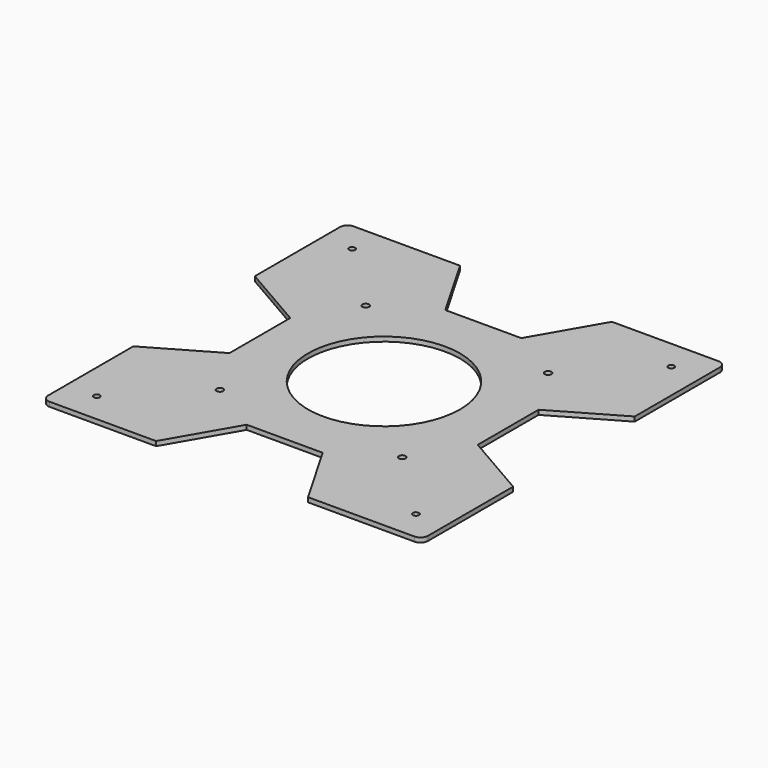
from build123d import *

# Parameters (mm, degrees)
F0_R     = 50
F1_DEPTH = 3
F2_D     = 4.4
F3_D     = 4


with BuildPart() as f1:
    # F0 (on Top) → F1 (new body)
    with BuildSketch(Plane.XY):
        with BuildLine():
            Line((-101.7921956682, 211.8060733306), (-171.7921956682, 211.8060733306))
            ThreePointArc((-171.7921956682, 211.8060733306), (-175.3277295741, 210.3416072366), (-176.7921956682, 206.8060733306))
            Line((-176.7921956682, 206.8060733306), (-176.7921956682, 136.8060733306))
            Line((-176.7921956682, 136.8060733306), (-133.490925479, 111.8060733306))
            Line((-133.490925479, 111.8060733306), (-133.490925479, 61.8060733306))
            Line((-133.490925479, 61.8060733306), (-176.7921956682, 36.8060733306))
            Line((-176.7921956682, 36.8060733306), (-176.7921956682, -33.1939266694))
            ThreePointArc((-176.7921956682, -33.1939266694), (-175.3277295741, -36.7294605753), (-171.7921956682, -38.1939266694))
            Line((-171.7921956682, -38.1939266694), (-101.7921956682, -38.1939266694))
            Line((-101.7921956682, -38.1939266694), (-76.7921956682, 5.1073435198))
            Line((-76.7921956682, 5.1073435198), (-26.7921956682, 5.1073435198))
            Line((-26.7921956682, 5.1073435198), (-1.7921956682, -38.1939266694))
            Line((-1.7921956682, -38.1939266694), (68.2078043318, -38.1939266694))
            ThreePointArc((68.2078043318, -38.1939266694), (71.7433382377, -36.7294605753), (73.2078043318, -33.1939266694))
            Line((73.2078043318, -33.1939266694), (73.2078043318, 36.8060733306))
            Line((73.2078043318, 36.8060733306), (29.9065341426, 61.8060733306))
            Line((29.9065341426, 61.8060733306), (29.9065341426, 111.8060733306))
            Line((29.9065341426, 111.8060733306), (73.2078043318, 136.8060733306))
            Line((73.2078043318, 136.8060733306), (73.2078043318, 206.8060733306))
            ThreePointArc((73.2078043318, 206.8060733306), (71.7433382377, 210.3416072366), (68.2078043318, 211.8060733306))
            Line((68.2078043318, 211.8060733306), (-1.7921956682, 211.8060733306))
            Line((-1.7921956682, 211.8060733306), (-26.7921956682, 168.5048031414))
            Line((-26.7921956682, 168.5048031414), (-76.7921956682, 168.5048031414))
            Line((-76.7921956682, 168.5048031414), (-101.7921956682, 211.8060733306))
        make_face()
        with Locations((-51.7921956682, 86.8060733306)):
            Circle(F0_R, mode=Mode.SUBTRACT)
    extrude(amount=F1_DEPTH)

    # F2 (through all)
    with Locations(Plane(origin=(0, 0, 0), x_dir=(1, 0, 0), z_dir=(0, 0, -1))):
        with Locations((-111.7921956682, -146.8060733306), (-111.7921956682, -26.8060733306), (8.2078043318, -26.8060733306), (8.2078043318, -146.8060733306)):
            Hole(F2_D / 2)

    # F3 (through all)
    with Locations(Plane(origin=(0, 0, 0), x_dir=(1, 0, 0), z_dir=(0, 0, -1))):
        with Locations((-156.7921956682, -191.8060733306), (-156.7921956682, 18.1939266694), (53.2078043318, 18.1939266694), (53.2078043318, -191.8060733306)):
            Hole(F3_D / 2)


solid = f1.part
